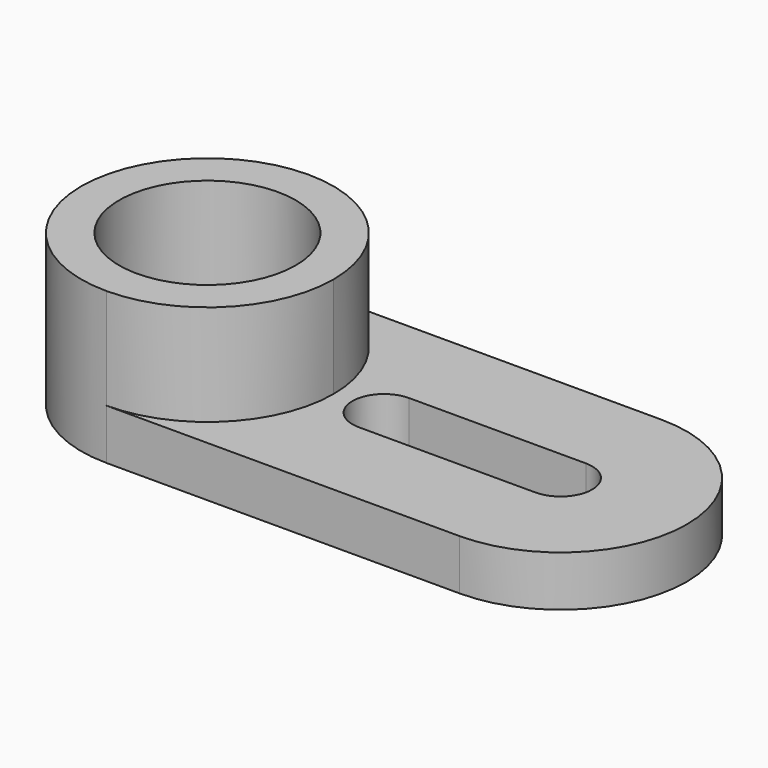
from build123d import *

# Parameters (mm, degrees)
F0_R     = 35
F1_DEPTH = 20
F2_DEPTH = 60


with BuildPart() as f1:
    # F0 (on Top) → F1 (new body)
    with BuildSketch(Plane.XY):
        with BuildLine():
            ThreePointArc((-70, -50), (-34.644661, -35.355339), (-20, 0))
            ThreePointArc((-20, 0), (-34.644661, 35.355339), (-70, 50))
            ThreePointArc((-70, 50), (-120, 0), (-70, -50))
        make_face()
        with Locations((-70, 0)):
            Circle(F0_R, mode=Mode.SUBTRACT)
        with BuildLine():
            ThreePointArc((-70, 50), (-34.644661, 35.355339), (-20, 0))
            ThreePointArc((-20, 0), (-34.644661, -35.355339), (-70, -50))
            Line((-70, -50), (70, -50))
            ThreePointArc((70, -50), (120, 0), (70, 50))
            Line((70, 50), (-70, 50))
        make_face()
        with BuildLine():
            Line((70, -12.5), (0, -12.5))
            ThreePointArc((0, -12.5), (-12.5, 0), (0, 12.5))
            Line((0, 12.5), (70, 12.5))
            ThreePointArc((70, 12.5), (82.5, 0), (70, -12.5))
        make_face(mode=Mode.SUBTRACT)
    extrude(amount=F1_DEPTH)

    # F0 (on Top) → F2 (join)
    with BuildSketch(Plane.XY):
        with BuildLine():
            ThreePointArc((-70, -50), (-34.644661, -35.355339), (-20, 0))
            ThreePointArc((-20, 0), (-34.644661, 35.355339), (-70, 50))
            ThreePointArc((-70, 50), (-120, 0), (-70, -50))
        make_face()
        with Locations((-70, 0)):
            Circle(F0_R, mode=Mode.SUBTRACT)
    extrude(amount=F2_DEPTH)


solid = f1.part
